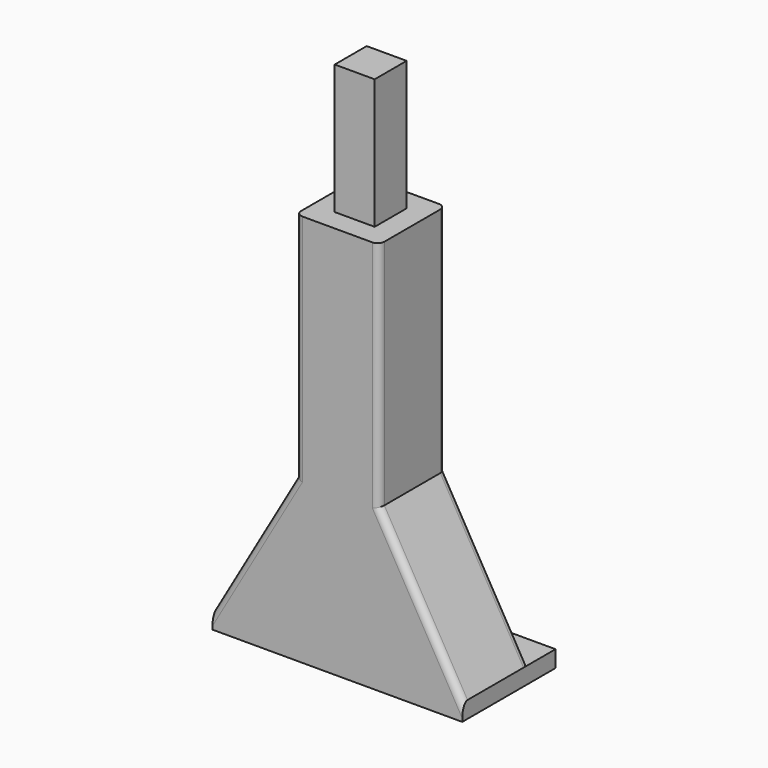
from build123d import *

# Parameters (mm, degrees)
F0_W     = 75
F0_H     = 35
F1_DEPTH = 5
F3_DEPTH = 25
F4_W     = 12
F4_H     = 12
F5_DEPTH = 39
F7_R     = 1.9
F8_DEPTH = 8
F9_R     = 2


with BuildPart() as f1:
    # F0 (on Top) → F1 (new body)
    with BuildSketch(Plane.XY):
        with Locations((37.5, 17.5)):
            Rectangle(F0_W, F0_H)
    extrude(amount=F1_DEPTH)

    # F2 (on face) → F3 (join)
    with BuildSketch(Plane.XZ):
        Polygon((25, 48.30127), (0, 5), (25, 5), align=None)
        Polygon((25, 48.30127), (25, 5), (50, 5), (50, 48.30127), (50, 118), (25, 118), align=None)
        Polygon((50, 48.30127), (50, 5), (75, 5), align=None)
    extrude(amount=-F3_DEPTH)

    # F4 (on face) → F5 (join)
    with BuildSketch(Plane.XY.offset(118)):
        with Locations((37.5, 12.5)):
            Rectangle(F4_W, F4_H)
    extrude(amount=F5_DEPTH)

    # F7 (on face) → F8 (cut)
    with BuildSketch(Plane(origin=(0, 0, 0), x_dir=(1, 0, 0), z_dir=(0, 0, -1))):
        with BuildLine():
            ThreePointArc((11.9, -15.5), (10, -13.6), (8.1, -15.5))
            Line((8.1, -15.5), (10, -15.5))
            Line((10, -15.5), (11.9, -15.5))
        make_face()
        with BuildLine():
            ThreePointArc((29.4, -15.5), (27.5, -13.6), (25.6, -15.5))
            ThreePointArc((25.6, -15.5), (27.5, -17.4), (29.4, -15.5))
        make_face()
        with BuildLine():
            Line((10, -15.5), (8.1, -15.5))
            ThreePointArc((8.1, -15.5), (10, -17.4), (11.9, -15.5))
            Line((11.9, -15.5), (10, -15.5))
        make_face()
        with Locations((47.5, -15.5)):
            Circle(F7_R)
        with Locations((65, -15.5)):
            Circle(F7_R)
    extrude(amount=-F8_DEPTH, mode=Mode.SUBTRACT)

    # F9
    f9_edges = [f1.edges().sort_by_distance(p)[0] for p in [
        (50, 0, 83.150635),
        (50, 25, 83.150635),
        (25, 25, 83.150635),
        (25, 0, 83.150635),
        (12.5, 0, 26.650635),
        (62.5, 0, 26.650635),
        (62.5, 25, 26.650635),
        (12.5, 25, 26.650635),
    ]]
    fillet(f9_edges, radius=F9_R)


solid = f1.part
